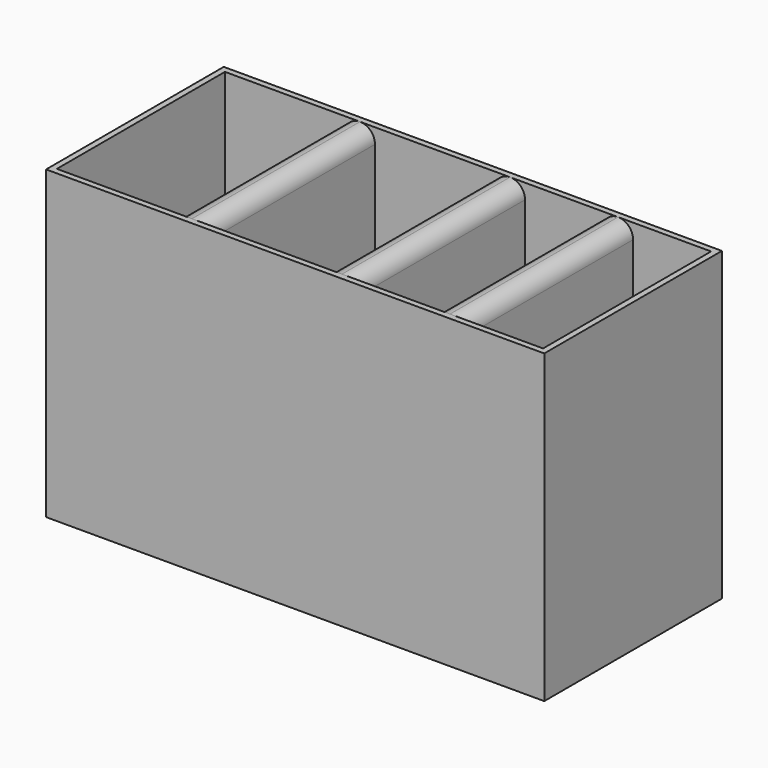
from build123d import *

# Parameters (mm, degrees)
F0_W     = 1.27
F0_H     = 44.45
F0_W_2   = 6.35
F1_DEPTH = 63.5
F2_W     = 105.41
F2_H     = 46.99
F3_DEPTH = 1.27
F4_R     = 3.17


with BuildPart() as f1:
    # F0 (on Top) → F1 (new body)
    with BuildSketch(Plane.XY):
        Polygon((19.05, -22.225), (12.7, -22.225), (-12.7, -22.225), (-12.7, 22.225), (-13.97, 22.225), (-13.97, -22.225), (-13.97, -23.495), (91.44, -23.495), (91.44, -22.225), (90.17, -22.225), (73.66, -22.225), (67.31, -22.225), (50.8, -22.225), (44.45, -22.225), align=None)
        Polygon((-12.7, 22.225), (12.7, 22.225), (19.05, 22.225), (44.45, 22.225), (50.8, 22.225), (67.31, 22.225), (73.66, 22.225), (90.17, 22.225), (91.44, 22.225), (91.44, 23.495), (-13.97, 23.495), (-13.97, 22.225), align=None)
        with Locations((90.805, 0)):
            Rectangle(F0_W, F0_H)
        Polygon((67.31, 22.225), (67.31, -22.225), (73.66, -22.225), (73.66, 0), (73.66, 22.225), align=None)
        with Locations((47.625, 0)):
            Rectangle(F0_W_2, F0_H)
        with Locations((15.875, 0)):
            Rectangle(F0_W_2, F0_H)
    extrude(amount=-F1_DEPTH)

    # F2 (on face) → F3 (join)
    with BuildSketch(Plane(origin=(0, 0, -63.5), x_dir=(1, 0, 0), z_dir=(0, 0, -1))):
        with Locations((38.735, 0)):
            Rectangle(F2_W, F2_H)
    extrude(amount=F3_DEPTH)

    # F4
    f4_edges = [f1.edges().sort_by_distance(p)[0] for p in [
        (19.05, 0, 0),
        (12.7, 0, 0),
        (44.45, 0, 0),
        (50.8, 0, 0),
        (67.31, 0, 0),
        (73.66, 0, 0),
    ]]
    fillet(f4_edges, radius=F4_R)


solid = f1.part
